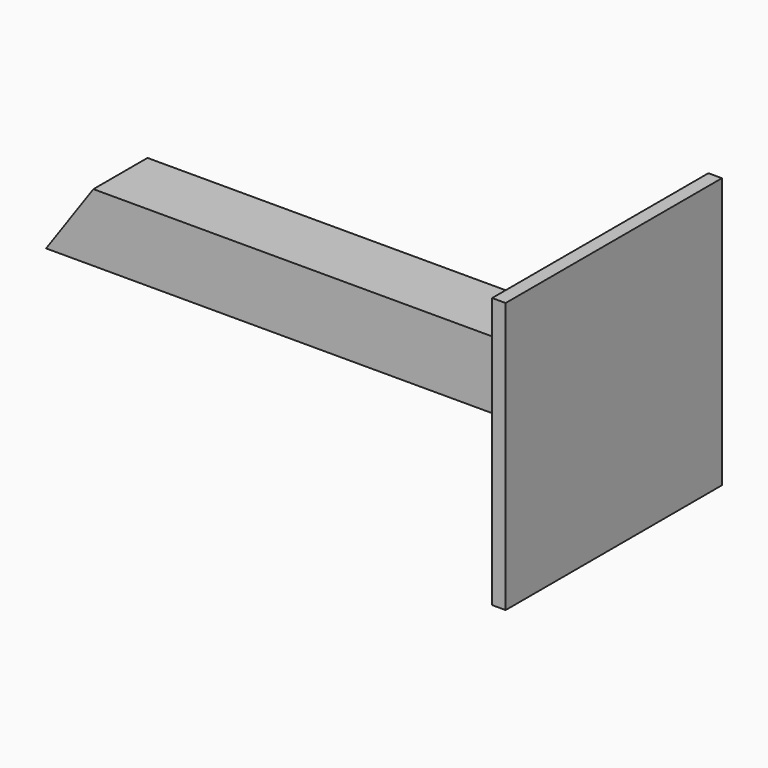
from build123d import *

# Parameters (mm, degrees)
F0_W     = 101.6
F0_H     = 12.7
F1_DEPTH = 12.7
F3_DEPTH = 25.4
F4_W     = 12.7
F4_H     = 12.7
F5_DEPTH = 2.54
F7_DEPTH = 2.54


with BuildPart() as f1:
    # F0 (on Front) → F1 (new body)
    with BuildSketch(Plane.XZ):
        with Locations((7.6688484669, 14.4629018217)):
            Rectangle(F0_W, F0_H)
    extrude(amount=F1_DEPTH)

    # F2 (on face) → F3 (cut)
    with BuildSketch(Plane.XZ.offset(12.7)):
        Polygon((-43.1311515331, 20.8129018217), (-43.1311515331, 8.1129018217), (-34.2385157979, 20.8129018217), align=None)
    extrude(amount=-F3_DEPTH, mode=Mode.SUBTRACT)

    # F4 (on face) → F5 (cut)
    with BuildSketch(Plane.YZ.offset(58.4688484669)):
        with Locations((-6.35, 14.4629018217)):
            Rectangle(F4_W, F4_H)
    extrude(amount=-F5_DEPTH, mode=Mode.SUBTRACT)

    # F6 (on face) → F7 (join)
    with BuildSketch(Plane.YZ.offset(55.9288484669)):
        Polygon((-31.75, 39.8629018217), (-31.75, 20.8129018217), (-31.75, -10.9370981783), (19.05, -10.9370981783), (19.05, 39.8629018217), align=None)
    extrude(amount=F7_DEPTH)


solid = f1.part
